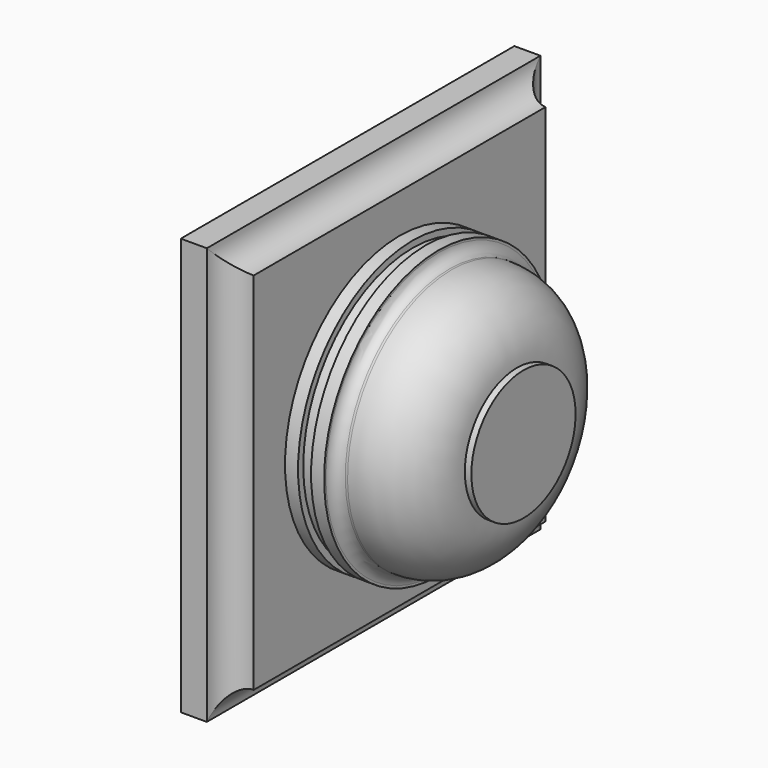
from build123d import *

# Parameters (mm, degrees)
F3_DEPTH = 12.7
F4_R     = 6.35


with BuildPart() as f1:
    # F0 (on Front) → F1 (revolve)
    with BuildSketch(Plane.XZ):
        with BuildLine():
            Line((0, 34.925), (0, 0))
            Line((0, 0), (30.1625, 0))
            Line((30.1625, 0), (30.1625, 15.875))
            Line((30.1625, 15.875), (28.575, 15.875))
            ThreePointArc((28.575, 15.875), (23.9253201513, 27.1003201513), (12.7, 31.75))
            ThreePointArc((12.7, 31.75), (12.4176771246, 31.7362554152), (12.1353542492, 31.75))
            ThreePointArc((12.1353542492, 31.75), (10.3625266249, 32.5875266249), (9.525, 34.3603542492))
            ThreePointArc((9.525, 34.3603542492), (9.5112554152, 34.6426771246), (9.525, 34.925))
            Line((9.525, 34.925), (6.35, 34.925))
            Line((6.35, 34.925), (6.35, 33.3375))
            Line((6.35, 33.3375), (3.175, 33.3375))
            Line((3.175, 33.3375), (3.175, 34.925))
            Line((3.175, 34.925), (0, 34.925))
        make_face()
        with BuildLine():
            ThreePointArc((12.1353542492, 31.75), (12.4176771246, 31.7362554152), (12.7, 31.75))
            Line((12.7, 31.75), (12.1353542492, 31.75))
        make_face()
        with BuildLine():
            Line((9.525, 34.3603542492), (9.525, 34.925))
            ThreePointArc((9.525, 34.925), (9.5112554152, 34.6426771246), (9.525, 34.3603542492))
        make_face()
    revolve(axis=Axis((15.08125, 0, 0), (-1, 0, 0)))

    # F2 (on Right) → F3 (join)
    with BuildSketch(Plane.YZ):
        Polygon((50.8, 50.8), (-50.8, 50.8), (-50.8, -50.8), (50.8, -50.8), (50.8, 0), align=None)
    extrude(amount=-F3_DEPTH)

    # F5: sweep along a path in F5_path
    with BuildLine(Plane(origin=(0, 50.8, 50.8), x_dir=(0, 0, -1), z_dir=(-1, 0, 0))) as f5_path:
        Line((0, 0), (0, 101.6))
        Line((0, 101.6), (101.6, 101.6))
        Line((101.6, 101.6), (101.6, 0))
        Line((101.6, 0), (0, 0))
    # F4 (on face) → F5 (sweep, cut)
    with BuildSketch(Plane.XZ.offset(50.8)):
        with Locations((0, 50.8)):
            Circle(F4_R)
    sweep(path=f5_path.line, transition=Transition.RIGHT, mode=Mode.SUBTRACT)


solid = f1.part
